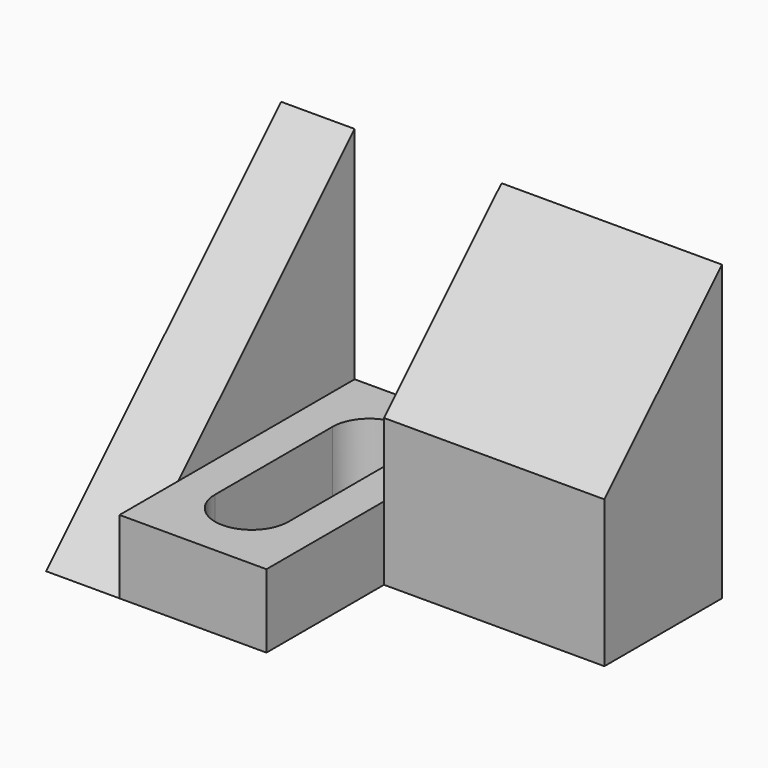
from build123d import *

# Parameters (mm, degrees)
F0_W      = 38.1
F0_H      = 25.4
F1_DEPTH  = 25.4
F3_DEPTH  = 50.8
F4_DEPTH  = 19.05
F5_W      = 12.7
F5_H      = 19.05
F6_DEPTH  = 25.4
F8_DEPTH  = 6.35
F2_W      = 12.7
F2_H      = 6.35
F9_DEPTH  = 19.05
F11_DEPTH = 25.4


with BuildPart() as f1:
    # F0 (on Front) → F1 (new body)
    with BuildSketch(Plane.XZ):
        with Locations((19.05, 12.7)):
            Rectangle(F0_W, F0_H)
    extrude(amount=-F1_DEPTH)

    # F2 (on face) → F3 (cut)
    with BuildSketch(Plane.YZ.offset(38.1)):
        Polygon((25.4, 25.4), (12.7, 25.4), (12.7, 12.7), align=None)
    extrude(amount=-F3_DEPTH, mode=Mode.SUBTRACT)

    # F2 (on face) → F4 (cut)
    with BuildSketch(Plane.YZ.offset(38.1)):
        Polygon((12.7, 12.7), (12.7, 25.4), (0, 25.4), (0, 6.35), (12.7, 6.35), align=None)
    extrude(amount=-F4_DEPTH, mode=Mode.SUBTRACT)

    # F5 (on face) → F6 (cut)
    with BuildSketch(Plane.XZ):
        with Locations((12.7, 15.875)):
            Rectangle(F5_W, F5_H)
    extrude(amount=-F6_DEPTH, mode=Mode.SUBTRACT)

    # F7 (on face) → F8 (cut)
    with BuildSketch(Plane(origin=(0, 0, 0), x_dir=(0, -1, 0), z_dir=(-1, 0, 0))):
        Polygon((-12.7, 25.4), (-12.7, 12.7), (0, 0), (0, 25.4), align=None)
    extrude(amount=-F8_DEPTH, mode=Mode.SUBTRACT)

    # F2 (on face) → F9 (cut)
    with BuildSketch(Plane.YZ.offset(38.1)):
        with Locations((6.35, 3.175)):
            Rectangle(F2_W, F2_H)
    extrude(amount=-F9_DEPTH, mode=Mode.SUBTRACT)

    # F10 (on face) → F11 (cut)
    with BuildSketch(Plane.XY.offset(6.35)):
        with BuildLine():
            ThreePointArc((15.875, 19.05), (12.7, 22.225), (9.525, 19.05))
            Line((9.525, 19.05), (9.525, 6.35))
            ThreePointArc((9.525, 6.35), (12.7, 3.175), (15.875, 6.35))
            Line((15.875, 6.35), (15.875, 19.05))
        make_face()
    extrude(amount=-F11_DEPTH, mode=Mode.SUBTRACT)


solid = f1.part
